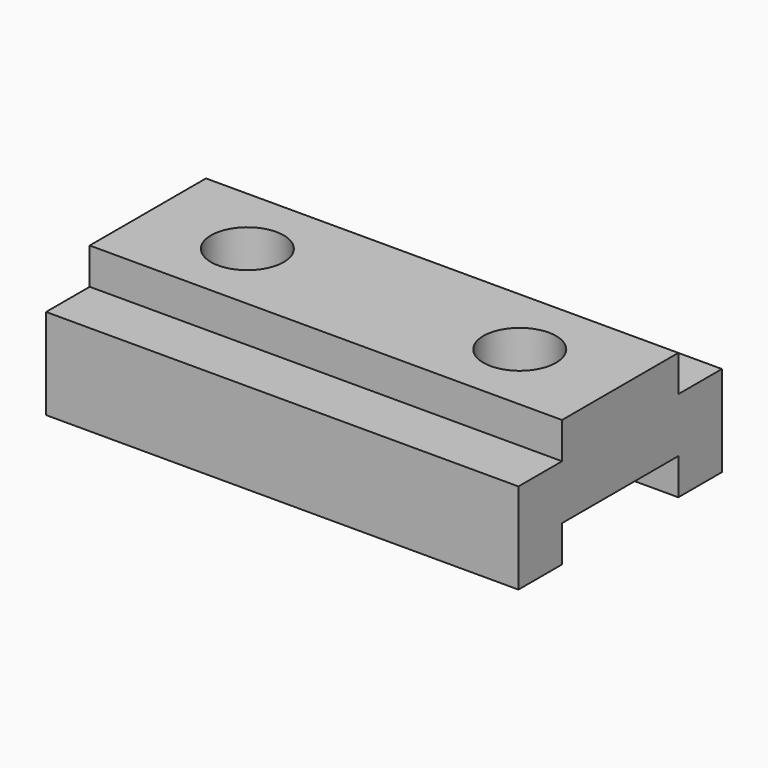
from build123d import *

# Parameters (mm, degrees)
F1_DEPTH = 165.1
F4_DEPTH = 44.451


with BuildPart() as f1:
    # F0 (on Right) → F1 (new body)
    with BuildSketch(Plane.YZ):
        Polygon((-25.4, 0), (0, 0), (25.4, 0), (25.4, -12.7), (44.45, -12.7), (44.45, 19.05), (25.4, 19.05), (25.4, 31.75), (-25.4, 31.75), (-25.4, 19.05), (-44.45, 19.05), (-44.45, -12.7), (-25.4, -12.7), align=None)
    extrude(amount=F1_DEPTH)

    # F3 (on face) → F4 (cut, through all)
    with BuildSketch(Plane.XY.offset(31.75)):
        with BuildLine():
            Line((34.925, 0), (47.496461463, 0))
            ThreePointArc((47.496461463, 0), (34.796461463, 12.7), (22.096461463, 0))
            Line((22.096461463, 0), (34.925, 0))
        make_face()
        with BuildLine():
            ThreePointArc((22.096461463, 0), (34.796461463, -12.7), (47.496461463, 0))
            Line((47.496461463, 0), (34.925, 0))
            Line((34.925, 0), (22.096461463, 0))
        make_face()
        with BuildLine():
            ThreePointArc((142.6928426743, 0), (129.9928426743, 12.7), (117.2928426743, 0))
            ThreePointArc((117.2928426743, 0), (129.9928426743, -12.7), (142.6928426743, 0))
        make_face()
    extrude(amount=-F4_DEPTH, mode=Mode.SUBTRACT)


solid = f1.part
